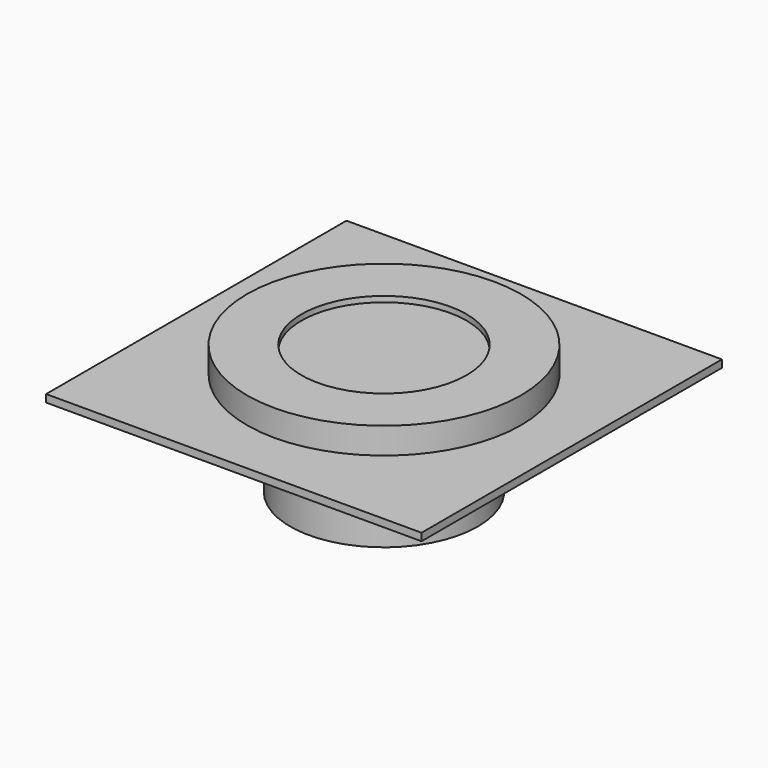
from build123d import *

# Parameters (mm, degrees)
SKETCH_R              = 50
SKETCH_R_2            = 47
PAD_DEPTH             = 8
PAD_DEPTH_BACK        = 42
SKETCH001_W           = 200
SKETCH001_H           = 200
SKETCH001_R           = 50
PAD001_DEPTH          = 4
SKETCH002_R           = 6
POCKET_DEPTH          = 569.742991
POLARPATTERN_COUNT    = 3
SKETCH003_R           = 69
SKETCH003_R_2         = 50
PAD002_DEPTH          = 8
SKETCH005_R           = 69
SKETCH005_R_2         = 44
PAD003_DEPTH          = 3
SKETCH004_R           = 47
SKETCH004_R_2         = 44
PAD004_DEPTH          = 8
SKETCH006_R           = 6
POCKET001_DEPTH       = 401.943451
POLARPATTERN001_COUNT = 3
FILLET_R              = 2
SKETCH007_R           = 69
PAD005_DEPTH          = 1
SKETCH008_R           = 6
POCKET002_DEPTH       = 391.329067
POLARPATTERN002_COUNT = 3
SKETCH009_R           = 73
SKETCH009_R_2         = 44
PAD006_DEPTH          = 3
SKETCH010_R           = 73
SKETCH010_R_2         = 70
PAD007_DEPTH          = 11
SKETCH011_R           = 5.5
SKETCH011_R_2         = 2.8
PAD008_DEPTH          = 21
POLARPATTERN003_COUNT = 3
FILLET001_R           = 1
FILLET002_R           = 1
FILLET003_R           = 1
SKETCH013_R           = 6
POCKET003_DEPTH       = 6
SKETCH014_R           = 2
POCKET004_DEPTH       = 464.088549
SKETCH015_R           = 4
POCKET005_DEPTH       = 12
POLARPATTERN004_COUNT = 3
SKETCH016_R           = 1.6
POCKET006_DEPTH       = 537.906479
POLARPATTERN005_COUNT = 3
SKETCH017_R           = 60
SKETCH017_R_2         = 1.5
PAD009_DEPTH          = 1.5
POCKET007_DEPTH       = 5
POLARPATTERN006_COUNT = 3
SKETCH019_R           = 1
POCKET008_DEPTH       = 5
POLARPATTERN007_COUNT = 36
SKETCH020_R           = 3
SKETCH020_R_2         = 1.5
PAD010_DEPTH          = 10
SKETCH022_R           = 6
POCKET009_DEPTH       = 6
SKETCH023_R           = 2
POCKET010_DEPTH       = 491.39878
SKETCH024_R           = 4
POCKET011_DEPTH       = 12
POLARPATTERN008_COUNT = 3


with BuildPart() as obj1:
    # Sketch → Pad (new body, two sides)
    with BuildSketch(Plane.XY) as pad_sk:
        Circle(SKETCH_R)
        Circle(SKETCH_R_2, mode=Mode.SUBTRACT)
    extrude(amount=PAD_DEPTH)
    extrude(pad_sk.sketch, amount=-PAD_DEPTH_BACK)


with BuildPart() as scheibe:
    # Sketch001 → Pad001 (new body)
    with BuildSketch(Plane.XY):
        Rectangle(SKETCH001_W, SKETCH001_H)
        Circle(SKETCH001_R, mode=Mode.SUBTRACT)
    extrude(amount=-PAD001_DEPTH)

    # Sketch002 → Pocket (cut, through all)
    with BuildSketch(Plane.XY):
        with Locations((60, 0)):
            Circle(SKETCH002_R)
    pocket = extrude(amount=-POCKET_DEPTH, mode=Mode.SUBTRACT)

    # PolarPattern: Pocket ×3 about axis
    polarpattern_axis = Axis((0, 0, 0), (0, 0, 1))
    for i in range(1, POLARPATTERN_COUNT):
        add(pocket.rotate(polarpattern_axis, i * 360 / POLARPATTERN_COUNT), mode=Mode.SUBTRACT)


with BuildPart() as obj2:
    # Sketch003 → Pad002 (new body)
    with BuildSketch(Plane.XY):
        Circle(SKETCH003_R)
        Circle(SKETCH003_R_2, mode=Mode.SUBTRACT)
    extrude(amount=PAD002_DEPTH)

    # Sketch005 → Pad003 (join)
    with BuildSketch(Plane.XY.offset(8)):
        Circle(SKETCH005_R)
        Circle(SKETCH005_R_2, mode=Mode.SUBTRACT)
    extrude(amount=PAD003_DEPTH)

    # Sketch004 → Pad004 (join)
    with BuildSketch(Plane.XY.offset(8)):
        Circle(SKETCH004_R)
        Circle(SKETCH004_R_2, mode=Mode.SUBTRACT)
    extrude(amount=-PAD004_DEPTH)

    # Sketch006 → Pocket001 (cut, through all)
    with BuildSketch(Plane.XY.offset(11)):
        with Locations((60, 0)):
            Circle(SKETCH006_R)
    pocket001 = extrude(amount=-POCKET001_DEPTH, mode=Mode.SUBTRACT)

    # PolarPattern001: Pocket001 ×3 about axis
    polarpattern001_axis = Axis((0, 0, 11), (0, 0, 1))
    for i in range(1, POLARPATTERN001_COUNT):
        add(pocket001.rotate(polarpattern001_axis, i * 360 / POLARPATTERN001_COUNT), mode=Mode.SUBTRACT)

    # Fillet
    fillet_edges = [obj2.edges().sort_by_distance(p)[0] for p in [
        (-27, -46.765372, 11),
        (-27, 46.765372, 11),
        (54, 0, 11),
    ]]
    fillet(fillet_edges, radius=FILLET_R)


with BuildPart() as obj3:
    # Sketch007 → Pad005 (new body)
    with BuildSketch(Plane.XY):
        Circle(SKETCH007_R)
    extrude(amount=PAD005_DEPTH)

    # Sketch008 → Pocket002 (cut, through all)
    with BuildSketch(Plane.XY):
        with Locations((60, 0)):
            Circle(SKETCH008_R)
    pocket002 = extrude(amount=POCKET002_DEPTH, mode=Mode.SUBTRACT)

    # PolarPattern002: Pocket002 ×3 about axis
    polarpattern002_axis = Axis((0, 0, 0), (0, 0, 1))
    for i in range(1, POLARPATTERN002_COUNT):
        add(pocket002.rotate(polarpattern002_axis, i * 360 / POLARPATTERN002_COUNT), mode=Mode.SUBTRACT)


with BuildPart() as obj3_1:
    # Body003 placement: moved
    add(obj3.part.moved(Location((0, 0, 11))))


with BuildPart() as obj4:
    # Sketch009 → Pad006 (new body)
    with BuildSketch(Plane.XY):
        Circle(SKETCH009_R)
        Circle(SKETCH009_R_2, mode=Mode.SUBTRACT)
    extrude(amount=PAD006_DEPTH)

    # Sketch010 → Pad007 (join)
    with BuildSketch(Plane.XY):
        Circle(SKETCH010_R)
        Circle(SKETCH010_R_2, mode=Mode.SUBTRACT)
    extrude(amount=-PAD007_DEPTH)

    # Sketch011 → Pad008 (join)
    with BuildSketch(Plane.XY):
        with Locations((60, 0)):
            Circle(SKETCH011_R)
        with Locations((60, 0)):
            Circle(SKETCH011_R_2, mode=Mode.SUBTRACT)
    pad008 = extrude(amount=-PAD008_DEPTH)

    # PolarPattern003: Pad008 ×3 about axis
    polarpattern003_axis = Axis((0, 0, 0), (0, 0, 1))
    for i in range(1, POLARPATTERN003_COUNT):
        add(pad008.rotate(polarpattern003_axis, i * 360 / POLARPATTERN003_COUNT))

    # Fillet001
    fillet001_edges = [obj4.edges().sort_by_distance(p)[0] for p in [
        (-27.25, -47.198385, -21),
        (54.5, 0, -21),
        (-27.25, 47.198385, -21),
    ]]
    fillet(fillet001_edges, radius=FILLET001_R)

    # Fillet002
    fillet002_edges = [obj4.edges().sort_by_distance(p)[0] for p in [
        (-27.25, -47.198385, 0),
        (-27.25, 47.198385, 0),
        (54.5, 0, 0),
    ]]
    fillet(fillet002_edges, radius=FILLET002_R)

    # Fillet003
    fillet003_edges = [obj4.edges().sort_by_distance(p)[0] for p in [
        (-70, 0, -11),
    ]]
    fillet(fillet003_edges, radius=FILLET003_R)


with BuildPart() as obj4_1:
    # Body004 placement: moved
    add(obj4.part.moved(Location((0, 0, 12))))


with BuildPart() as obj5:
    # Sketch012 → Revolution (revolve)
    with BuildSketch(Plane.XZ):
        with BuildLine():
            Line((51, 0), (51, -30))
            Line((51, -30), (55, -30))
            ThreePointArc((74.999953, -10), (60.857848, -15.857881), (55, -30))
            Line((74.999953, -10), (76, -10))
            Line((76, -10), (76, 0))
            Line((76, 0), (51, 0))
        make_face()
    revolve(axis=Axis((0, 0, 0), (0, 0, 1)))

    # Sketch013 → Pocket003 (cut)
    with BuildSketch(Plane.XY):
        with Locations((60, 0)):
            Circle(SKETCH013_R)
    pocket003 = extrude(amount=-POCKET003_DEPTH, mode=Mode.SUBTRACT)

    # Sketch014 → Pocket004 (cut, through all)
    with BuildSketch(Plane.XY):
        with Locations((60, 0)):
            Circle(SKETCH014_R)
    pocket004 = extrude(amount=-POCKET004_DEPTH, mode=Mode.SUBTRACT)

    # Sketch015 → Pocket005 (cut)
    with BuildSketch(Plane.XY.offset(-13)):
        with Locations((60, 0)):
            Circle(SKETCH015_R)
    pocket005 = extrude(amount=-POCKET005_DEPTH, mode=Mode.SUBTRACT)

    # PolarPattern004: Pocket003, Pocket004, Pocket005 ×3 about axis
    polarpattern004_axis = Axis((0, 0, 0), (0, 0, 1))
    for i in range(1, POLARPATTERN004_COUNT):
        add(pocket003.rotate(polarpattern004_axis, i * 360 / POLARPATTERN004_COUNT), mode=Mode.SUBTRACT)
        add(pocket004.rotate(polarpattern004_axis, i * 360 / POLARPATTERN004_COUNT), mode=Mode.SUBTRACT)
        add(pocket005.rotate(polarpattern004_axis, i * 360 / POLARPATTERN004_COUNT), mode=Mode.SUBTRACT)

    # Sketch016 → Pocket006 (cut, through all)
    with BuildSketch(Plane(origin=(0, 0, -24), x_dir=(-0.866025, 0.5, 0), z_dir=(0.5, 0.866025, 0))):
        Circle(SKETCH016_R)
    pocket006 = extrude(amount=POCKET006_DEPTH, mode=Mode.SUBTRACT)

    # PolarPattern005: Pocket006 ×3 about axis
    polarpattern005_axis = Axis((0, 0, 0), (0, 0, 1))
    for i in range(1, POLARPATTERN005_COUNT):
        add(pocket006.rotate(polarpattern005_axis, i * 360 / POLARPATTERN005_COUNT), mode=Mode.SUBTRACT)


with BuildPart() as obj5_1:
    # Body005 placement: moved
    add(obj5.part.moved(Location((0, 0, -4))))


with BuildPart() as obj6:
    # Sketch017 → Pad009 (new body)
    with BuildSketch(Plane.XY):
        Circle(SKETCH017_R)
        Circle(SKETCH017_R_2, mode=Mode.SUBTRACT)
        with Locations((0, -25)):
            Circle(SKETCH017_R_2, mode=Mode.SUBTRACT)
    extrude(amount=PAD009_DEPTH)

    # Sketch018 → Pocket007 (cut)
    with BuildSketch(Plane.XY):
        with BuildLine():
            ThreePointArc((58.75, 1), (57.75, 0), (58.75, -1))
            Line((58.75, -1), (61.25, -1))
            ThreePointArc((61.25, -1), (62.25, 0), (61.25, 1))
            Line((61.25, 1), (58.75, 1))
        make_face()
    pocket007 = extrude(amount=POCKET007_DEPTH, mode=Mode.SUBTRACT)

    # PolarPattern006: Pocket007 ×3 about axis
    polarpattern006_axis = Axis((0, 0, 0), (0, 0, 1))
    for i in range(1, POLARPATTERN006_COUNT):
        add(pocket007.rotate(polarpattern006_axis, i * 360 / POLARPATTERN006_COUNT), mode=Mode.SUBTRACT)

    # Sketch019 → Pocket008 (cut)
    with BuildSketch(Plane.XY):
        with Locations((50, 0)):
            Circle(SKETCH019_R)
    pocket008 = extrude(amount=POCKET008_DEPTH, mode=Mode.SUBTRACT)

    # PolarPattern007: Pocket008 ×36 about axis
    polarpattern007_axis = Axis((0, 0, 0), (0, 0, 1))
    for i in range(1, POLARPATTERN007_COUNT):
        add(pocket008.rotate(polarpattern007_axis, i * 360 / POLARPATTERN007_COUNT), mode=Mode.SUBTRACT)

    # Sketch020 → Pad010 (join)
    with BuildSketch(Plane.XY.offset(1.5)):
        Circle(SKETCH020_R)
        Circle(SKETCH020_R_2, mode=Mode.SUBTRACT)
    extrude(amount=PAD010_DEPTH)


with BuildPart() as obj7:
    # Sketch021 → Revolution001 (revolve)
    with BuildSketch(Plane.XZ):
        Polygon((51, 0), (51, -13.343146), (47, -23), (47, -50), (50, -50), (50, -26), (56.627417, -10), (76, -10), (76, 0), align=None)
    revolve(axis=Axis((0, 0, 0), (0, 0, 1)))

    # Sketch022 → Pocket009 (cut)
    with BuildSketch(Plane.XY):
        with Locations((60, 0)):
            Circle(SKETCH022_R)
    pocket009 = extrude(amount=-POCKET009_DEPTH, mode=Mode.SUBTRACT)

    # Sketch023 → Pocket010 (cut, through all)
    with BuildSketch(Plane.XY):
        with Locations((60, 0)):
            Circle(SKETCH023_R)
    pocket010 = extrude(amount=-POCKET010_DEPTH, mode=Mode.SUBTRACT)

    # Sketch024 → Pocket011 (cut)
    with BuildSketch(Plane.XY.offset(-13)):
        with Locations((60, 0)):
            Circle(SKETCH024_R)
    pocket011 = extrude(amount=-POCKET011_DEPTH, mode=Mode.SUBTRACT)

    # PolarPattern008: Pocket009, Pocket010, Pocket011 ×3 about axis
    polarpattern008_axis = Axis((0, 0, 0), (0, 0, 1))
    for i in range(1, POLARPATTERN008_COUNT):
        add(pocket009.rotate(polarpattern008_axis, i * 360 / POLARPATTERN008_COUNT), mode=Mode.SUBTRACT)
        add(pocket010.rotate(polarpattern008_axis, i * 360 / POLARPATTERN008_COUNT), mode=Mode.SUBTRACT)
        add(pocket011.rotate(polarpattern008_axis, i * 360 / POLARPATTERN008_COUNT), mode=Mode.SUBTRACT)


with BuildPart() as obj7_1:
    # Body007 placement: moved
    add(obj7.part.moved(Location((0, 0, -4))))


solid = Compound([obj1.part, scheibe.part, obj2.part, obj3_1.part, obj4_1.part, obj5_1.part, obj6.part, obj7_1.part])
